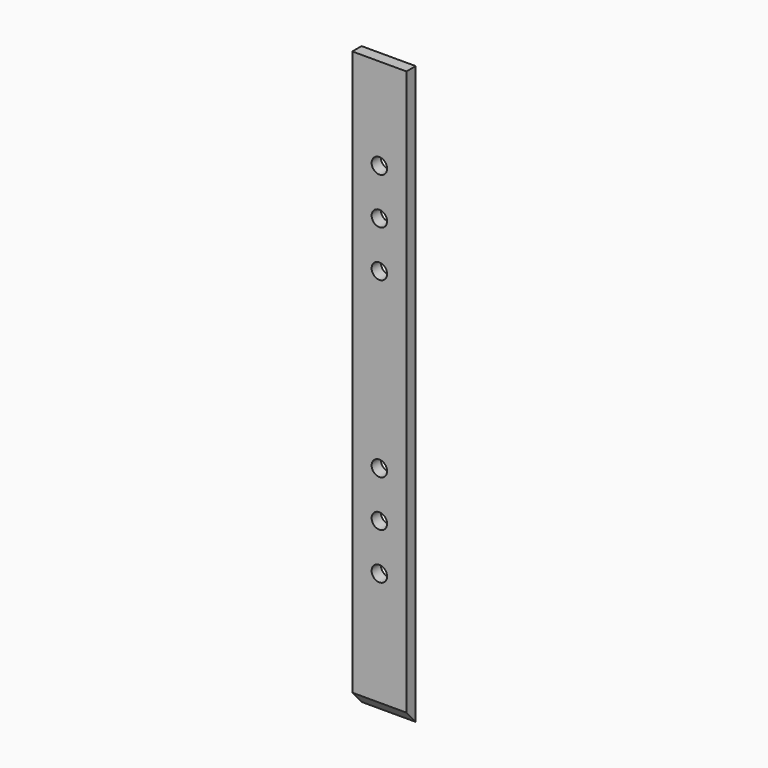
from build123d import *

# Parameters (mm, degrees)
F0_W     = 88.9
F0_H     = 948.796146
F0_R     = 12.7
F1_DEPTH = 19.05
F3_DEPTH = 88.901


with BuildPart() as f1:
    # F0 (on Front) → F1 (new body)
    with BuildSketch(Plane.XZ):
        with Locations((751.908428, 3159.175076)):
            Rectangle(F0_W, F0_H)
        with Locations((751.908428, 2892.630715)):
            Circle(F0_R, mode=Mode.SUBTRACT)
        with Locations((751.908428, 2968.830715)):
            Circle(F0_R, mode=Mode.SUBTRACT)
        with Locations((751.908428, 3045.030715)):
            Circle(F0_R, mode=Mode.SUBTRACT)
        with Locations((751.908428, 3330.18958)):
            Circle(F0_R, mode=Mode.SUBTRACT)
        with Locations((751.908428, 3406.38958)):
            Circle(F0_R, mode=Mode.SUBTRACT)
        with Locations((751.908428, 3482.58958)):
            Circle(F0_R, mode=Mode.SUBTRACT)
    extrude(amount=F1_DEPTH)

    # F2 (on face) → F3 (cut, through all)
    with BuildSketch(Plane.YZ.offset(796.358428)):
        Polygon((-19.05, 2684.777003), (0, 2684.777003), (-19.05, 2705.983741), align=None)
    extrude(amount=-F3_DEPTH, mode=Mode.SUBTRACT)


solid = f1.part
